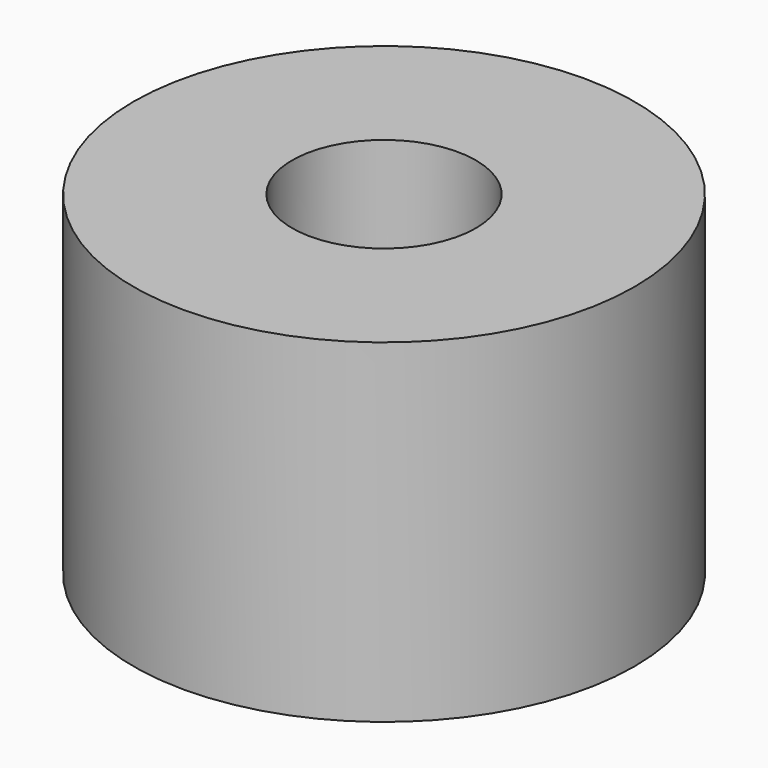
from build123d import *

# Parameters (mm, degrees)
CYLINDER1315_R     = 1
CYLINDER1315_DEPTH = 20
CYLINDER1317_R     = 1
CYLINDER1317_DEPTH = 20
CYLINDER1318_R     = 1
CYLINDER1318_DEPTH = 20
CYLINDER1311_R     = 1
CYLINDER1311_DEPTH = 20
TUBE118_R          = 7.5
TUBE118_R_2        = 2.75
TUBE118_DEPTH      = 10


with BuildPart() as obj1:
    # Cylinder1315 → Cylinder1315 (new body)
    with BuildSketch(Plane(origin=(4, -4, -88), x_dir=(0, 1, 0), z_dir=(0, 0, 1))):
        Circle(CYLINDER1315_R)
    extrude(amount=CYLINDER1315_DEPTH)


with BuildPart() as obj2:
    # Cylinder1317 → Cylinder1317 (new body)
    with BuildSketch(Plane(origin=(4, 4, -88), x_dir=(-1, 0, 0), z_dir=(0, 0, 1))):
        Circle(CYLINDER1317_R)
    extrude(amount=CYLINDER1317_DEPTH)


with BuildPart() as obj3:
    # Cylinder1318 → Cylinder1318 (new body)
    with BuildSketch(Plane(origin=(-4, 4, -88), x_dir=(0, -1, 0), z_dir=(0, 0, 1))):
        Circle(CYLINDER1318_R)
    extrude(amount=CYLINDER1318_DEPTH)


with BuildPart() as compound933:
    # Cylinder1311 → Cylinder1311 (new body)
    with BuildSketch(Plane(origin=(-4, -4, -88), x_dir=(1, 0, 0), z_dir=(0, 0, 1))):
        Circle(CYLINDER1311_R)
    extrude(amount=CYLINDER1311_DEPTH)

    # Compound933: union obj1, obj2, obj3
    add(obj1.part)
    add(obj2.part)
    add(obj3.part)


with BuildPart() as compound933_1:
    # Compound933 placement: moved
    add(compound933.part.moved(Location((0, 0, 91))))


with BuildPart() as cut477:
    # Tube118 → Tube118 (new body)
    with BuildSketch(Plane.XY.offset(19)):
        Circle(TUBE118_R)
        Circle(TUBE118_R_2, mode=Mode.SUBTRACT)
    extrude(amount=TUBE118_DEPTH)

    # Cut477: cut Compound933
    add(compound933_1.part, mode=Mode.SUBTRACT)


solid = cut477.part
